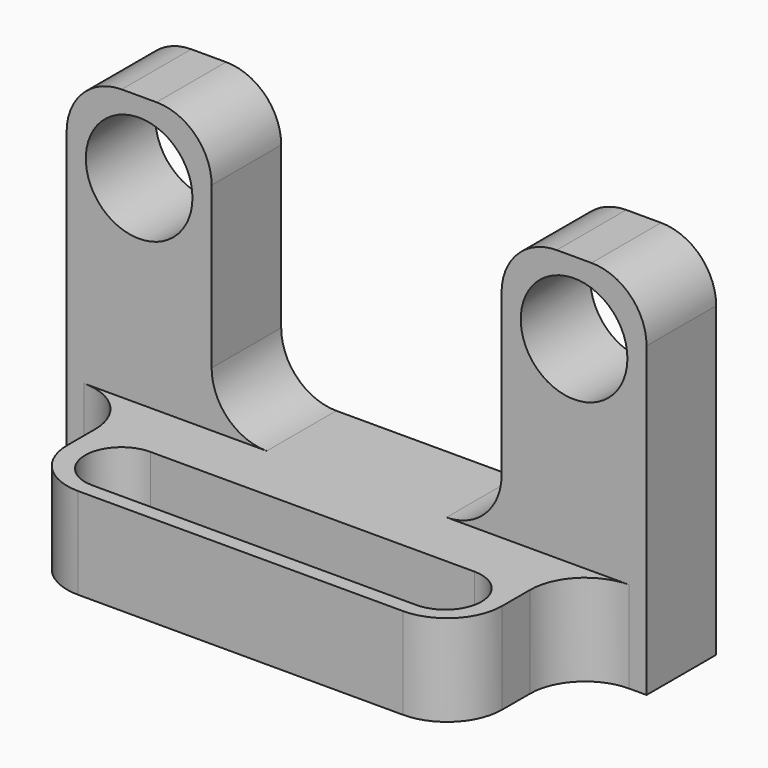
from build123d import *

# Parameters (mm, degrees)
F2_DEPTH  = 40.64
F1_R      = 9.3438702408
F3_DEPTH  = 40.641
F5_START  = 16.002
F4_W      = 101.6
F4_H      = 25.4
F5_DEPTH  = 47.499
F6_W      = 12.7
F6_H      = 16.002
F7_DEPTH  = 25.4
F8_R      = 9.652
F9_R      = 9.652
F11_DEPTH = 16.003
F12_R     = 9.652


with BuildPart() as f2:
    # F0 (on Front) → F2 (new body)
    with BuildSketch(Plane.XZ):
        Polygon((0, 63.5), (0, 0), (101.6, 0), (101.6, 63.5), (76.2, 63.5), (76.2, 16.002), (25.4, 16.002), (25.4, 63.5), align=None)
    extrude(amount=F2_DEPTH)

    # F1 (on face) → F3 (cut, through all)
    with BuildSketch(Plane.XZ):
        with Locations((12.7, 50.8)):
            Circle(F1_R)
        with Locations((88.9, 50.8)):
            Circle(F1_R)
    extrude(amount=F3_DEPTH, mode=Mode.SUBTRACT)

    # F4 (on Top) → F5 (cut)
    with BuildSketch(Plane.XY.offset(F5_START)):
        with Locations((50.8, -27.94)):
            Rectangle(F4_W, F4_H)
    extrude(amount=F5_DEPTH, mode=Mode.SUBTRACT)

    # F6 (on face) → F7 (cut)
    with BuildSketch(Plane.XZ.offset(40.64)):
        with Locations((6.35, 8.001)):
            Rectangle(F6_W, F6_H)
        with Locations((95.25, 8.001)):
            Rectangle(F6_W, F6_H)
    extrude(amount=-F7_DEPTH, mode=Mode.SUBTRACT)

    # F8
    f8_edges = [f2.edges().sort_by_distance(p)[0] for p in [
        (25.4, -7.62, 63.5),
        (0, -7.62, 63.5),
        (76.2, -7.62, 63.5),
        (101.6, -7.62, 63.5),
    ]]
    fillet(f8_edges, radius=F8_R)

    # F9
    f9_edges = [f2.edges().sort_by_distance(p)[0] for p in [
        (12.7, -40.64, 8.001),
        (88.9, -40.64, 8.001),
        (12.7, -15.24, 8.001),
        (88.9, -15.24, 8.001),
    ]]
    fillet(f9_edges, radius=F9_R)

    # F10 (on face) → F11 (cut, through all)
    with BuildSketch(Plane.XY.offset(16.002)):
        with BuildLine():
            ThreePointArc((22.7949339896, -25.4), (16.4449339896, -31.75), (22.7949339896, -38.1))
            Line((22.7949339896, -38.1), (79.5431733131, -38.1))
            ThreePointArc((79.5431733131, -38.1), (85.8931733131, -31.75), (79.5431733131, -25.4))
            Line((79.5431733131, -25.4), (22.7949339896, -25.4))
        make_face()
    extrude(amount=-F11_DEPTH, mode=Mode.SUBTRACT)

    # F12
    f12_edges = [f2.edges().sort_by_distance(p)[0] for p in [
        (25.4, -7.62, 16.002),
        (76.2, -7.62, 16.002),
    ]]
    fillet(f12_edges, radius=F12_R)


solid = f2.part
